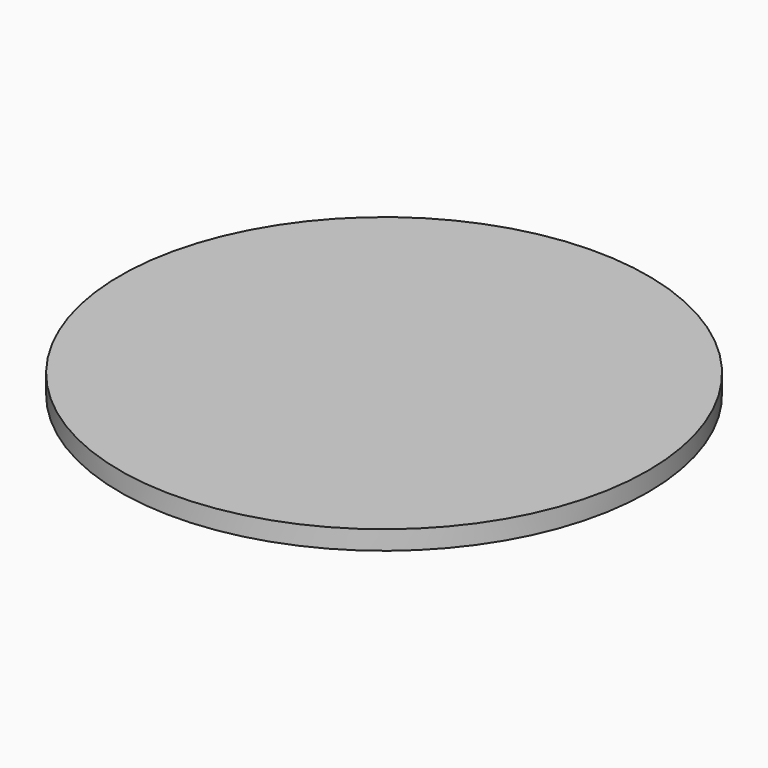
from build123d import *

# Parameters (mm, degrees)
F0_W = 16.094901
F0_H = 6.382459


with BuildPart() as f1:
    # F0 (on Front) → F1 (revolve)
    with BuildSketch(Plane.XZ):
        Polygon((0, 10.90275), (26.834462, 10.90275), (26.834462, 18.210204), (26.834462, 20.80019), (82.149126, 20.80019), (82.149126, 26.720153), (0, 26.720153), (0, 20.80019), (0, 18.210204), align=None)
        with Locations((40.246882, 15.018975)):
            Rectangle(F0_W, F0_H)
        Polygon((48.294332, 4.520289), (48.294332, 10.90275), (26.834462, 10.90275), (0, 10.90275), (0, 4.520289), align=None)
    revolve(axis=Axis((0, 0, 1.745306), (0, 0, 1)))


solid = f1.part
